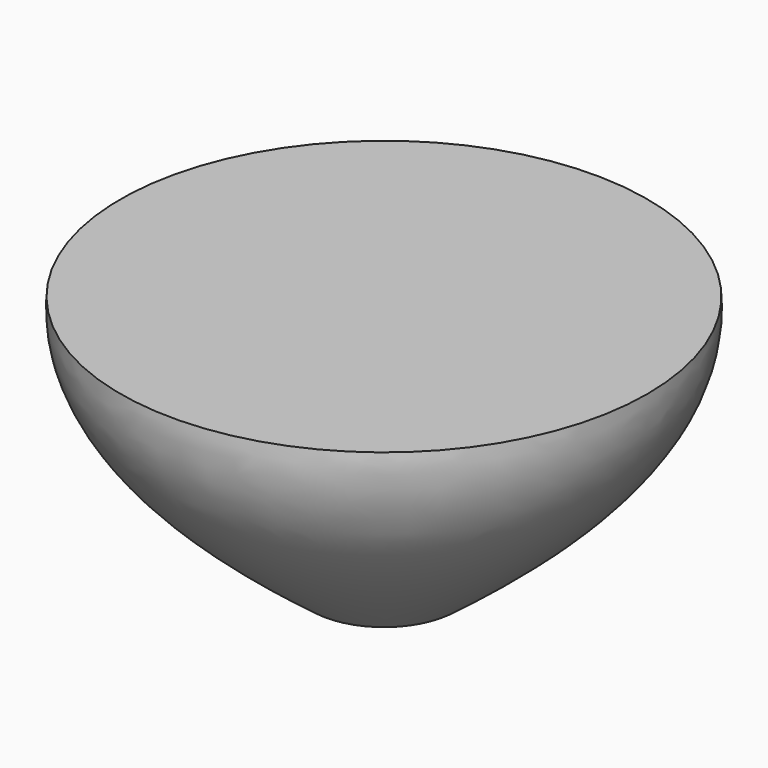
from build123d import *


with BuildPart() as f1:
    # F0 (on Front) → F1 (revolve)
    with BuildSketch(Plane.XZ):
        with BuildLine():
            Line((0, 88.9), (0, 0))
            Line((0, 0), (25.4, 0))
            add(Edge.make_bspline(
                [(25.4, 0), (70.443019, 34.040809), (94.579853, 60.22536), (92.457396, 88.9)],
                knots=[0, 0, 0, 0, 111.354858, 111.354858, 111.354858, 111.354858], degree=3))
            Line((92.457396, 88.9), (0, 88.9))
        make_face()
    revolve(axis=Axis((0, 0, -8.65513), (0, 0, -1)))


solid = f1.part
